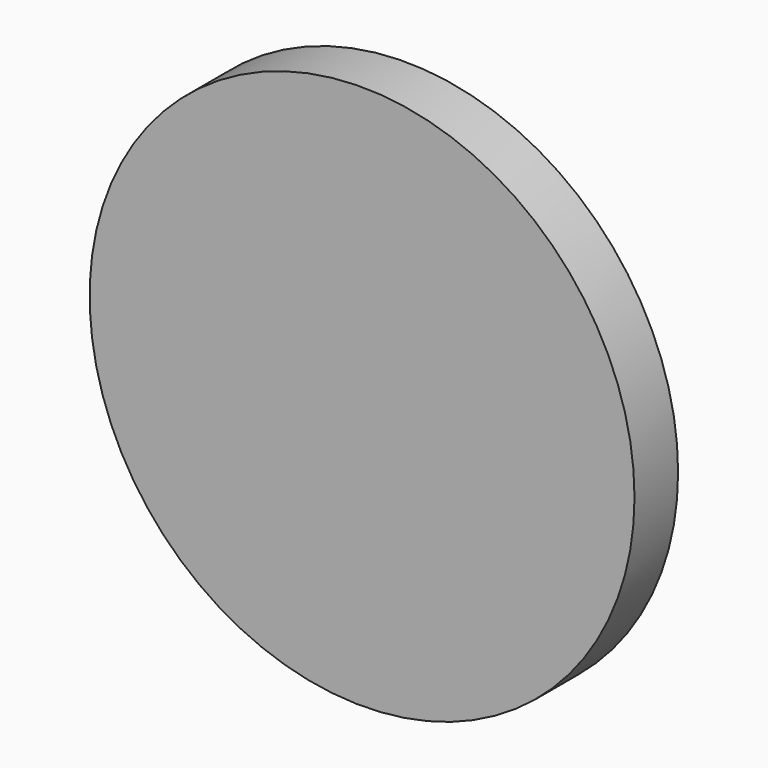
from build123d import *

# Parameters (mm, degrees)
F0_R     = 200
F1_DEPTH = 40
F2_R     = 196
F4_DEPTH = 5
F5_R     = 186
F6_DEPTH = 30


with BuildPart() as f1:
    # F0 (on Front) → F1 (new body)
    with BuildSketch(Plane.XZ):
        Circle(F0_R)
    extrude(amount=F1_DEPTH)

    # F2 (on face) → F4 (cut)
    with BuildSketch(Plane(origin=(0, 0, 0), x_dir=(-1, 0, 0), z_dir=(0, 1, 0))):
        Circle(F2_R)
    extrude(amount=-F4_DEPTH, mode=Mode.SUBTRACT)

    # F5 (on face) → F6 (cut)
    with BuildSketch(Plane(origin=(0, -5, 0), x_dir=(-1, 0, 0), z_dir=(0, 1, 0))):
        Circle(F5_R)
    extrude(amount=-F6_DEPTH, mode=Mode.SUBTRACT)


solid = f1.part
